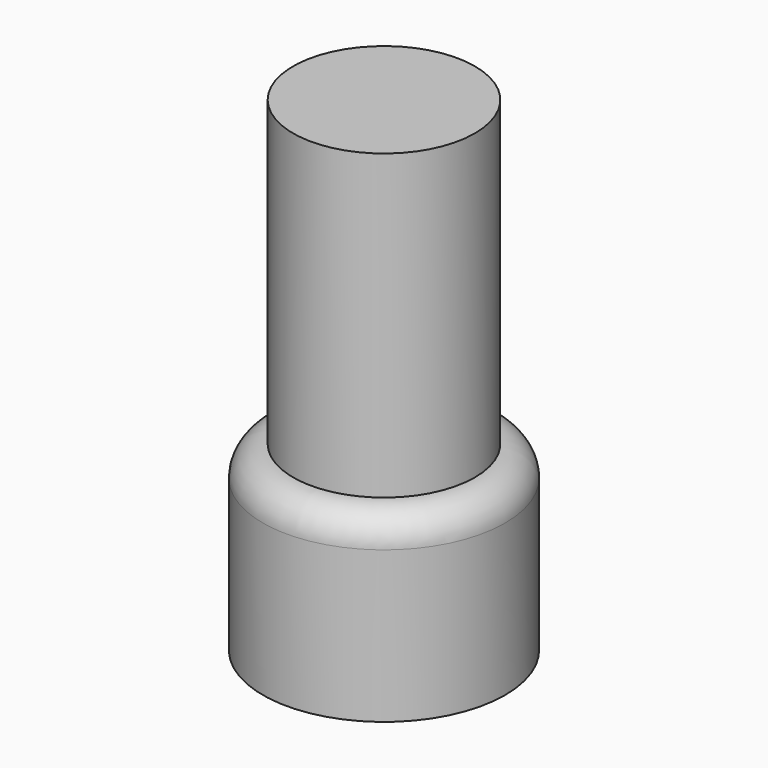
from build123d import *

# Parameters (mm, degrees)
F0_R      = 5.08
F1_DEPTH  = 7.62
F2_R      = 1.27
F1_FACE_R = 3.81
F3_DEPTH  = 12.7


with BuildPart() as f1:
    # F0 (on Top) → F1 (new body)
    with BuildSketch(Plane.XY):
        Circle(F0_R)
    extrude(amount=F1_DEPTH)

    # F2
    f2_edges = [f1.edges().sort_by_distance(p)[0] for p in [
        (-5.08, 0, 7.62),
    ]]
    fillet(f2_edges, radius=F2_R)

    # F1_face (on face) → F3 (join)
    with BuildSketch(Plane.XY.offset(7.62)):
        Circle(F1_FACE_R)
    extrude(amount=F3_DEPTH)


solid = f1.part
